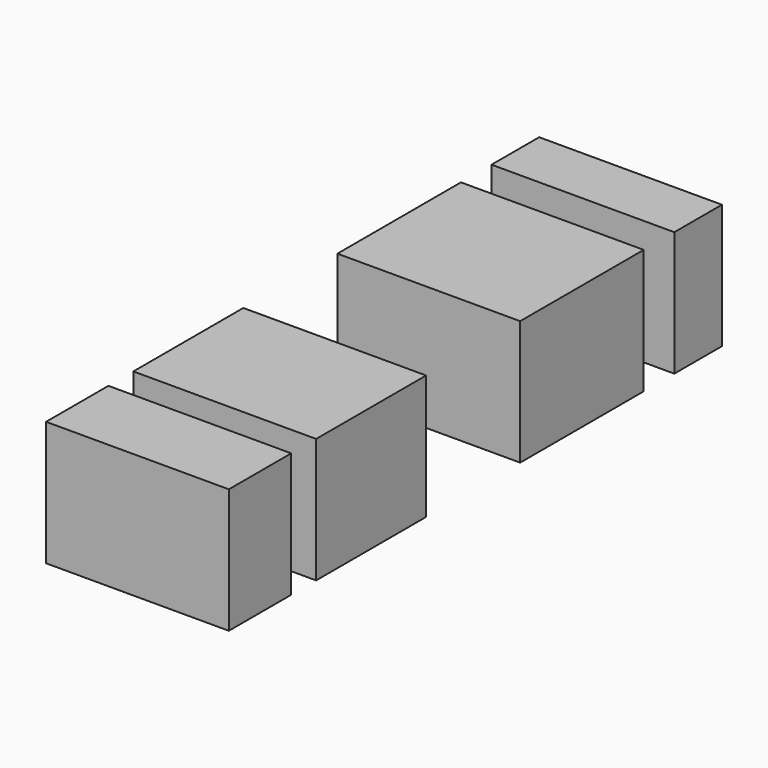
from build123d import *

# Parameters (mm, degrees)
F0_W     = 37.268234
F0_H     = 12.133848
F0_H_2   = 15.889559
F0_H_3   = 31.490211
F0_H_4   = 28.023401
F1_DEPTH = 25.4


with BuildPart() as f1:
    # F0 (on Top) → F1 (new body)
    with BuildSketch(Plane.XY):
        with Locations((-24.412138, 52.868882)):
            Rectangle(F0_W, F0_H)
        with Locations((-24.412138, -58.791367)):
            Rectangle(F0_W, F0_H_2)
        with Locations((-24.412138, 23.256526)):
            Rectangle(F0_W, F0_H_3)
        with Locations((-24.412138, -30.479066)):
            Rectangle(F0_W, F0_H_4)
    extrude(amount=F1_DEPTH)


solid = f1.part
